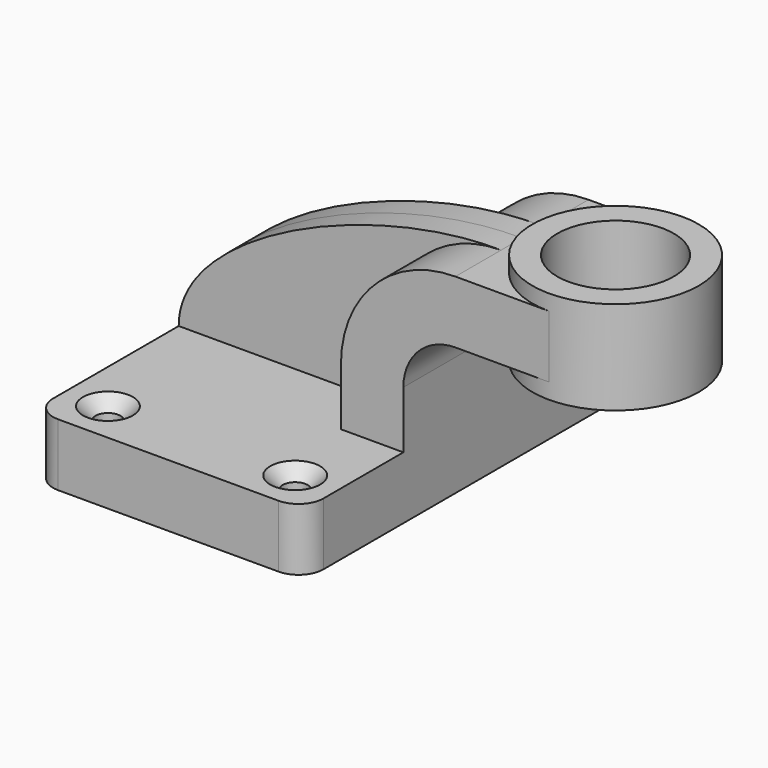
from build123d import *

# Parameters (mm, degrees)
F1_DEPTH       = 63.5
F0_W           = 25.4
F0_H           = 19.05
F2_DEPTH       = 25.4
F3_DEPTH       = 7.9375
F5_R           = 7.62
F7_D           = 7.62
F7_CSINK_D     = 15.24
F7_CSINK_ANGLE = 90
F8_D           = 7.62
F8_CSINK_D     = 15.24
F8_CSINK_ANGLE = 90
F10_D          = 35.56


with BuildPart() as f1:
    # F0 (on Front) → F1 (new body, symmetric)
    with BuildSketch(Plane.XZ):
        Polygon((22.225, 9.525), (-41.275, 9.525), (-41.275, -9.525), (41.275, -9.525), (41.275, 9.525), align=None)
    extrude(amount=F1_DEPTH, both=True)

    # F0 (on Front) → F2 (join, symmetric)
    with BuildSketch(Plane.XZ):
        with BuildLine():
            Line((22.225, 27.0002), (22.225, 9.525))
            Line((22.225, 9.525), (41.275, 9.525))
            Line((41.275, 9.525), (41.275, 27.0002))
            ThreePointArc((41.275, 27.0002), (45.9246798487, 38.2255201513), (57.15, 42.8752))
            Line((57.15, 42.8752), (60.325, 42.8752))
            Line((60.325, 42.8752), (60.325, 61.9252))
            Line((60.325, 61.9252), (57.15, 61.9252))
            ThreePointArc((57.15, 61.9252), (32.4542956671, 51.6959043329), (22.225, 27.0002))
        make_face()
        with Locations((73.025, 52.4002)):
            Rectangle(F0_W, F0_H)
    extrude(amount=F2_DEPTH, both=True)

    # F0 (on Front) → F3 (join, symmetric)
    with BuildSketch(Plane.XZ):
        with BuildLine():
            add(Edge.make_bspline(
                [(-41.275, 9.525), (-41.3618534803, 36.8419066072), (17.3745620996, 62.5231936574), (57.15, 61.9252)],
                knots=[0, 0, 0, 0, 111.5045361635, 111.5045361635, 111.5045361635, 111.5045361635], degree=3))
            Line((-41.275, 9.525), (22.225, 9.525))
            Line((22.225, 9.525), (22.225, 27.0002))
            ThreePointArc((22.225, 27.0002), (32.4542956671, 51.6959043329), (57.15, 61.9252))
        make_face()
    extrude(amount=F3_DEPTH, both=True)

    # F0 (on Front) → F4 (revolve)
    with BuildSketch(Plane.XZ):
        Polygon((85.725, 66.675), (85.725, 61.9252), (85.725, 42.8752), (85.725, 38.1), (111.125, 38.1), (111.125, 66.675), align=None)
    revolve(axis=Axis((85.725, 0, 52.3875), (0, 0, 1)))

    # F5
    f5_edges = [f1.edges().sort_by_distance(p)[0] for p in [
        (-41.275, -63.5, 0),
        (41.275, -63.5, 0),
        (-41.275, 63.5, 0),
        (41.275, 63.5, 0),
    ]]
    fillet(f5_edges, radius=F5_R)

    # F7 (through all)
    with Locations(Plane.XY.offset(9.525)):
        with Locations((-28.575, 50.8)):
            CounterSinkHole(F7_D / 2, F7_CSINK_D / 2, counter_sink_angle=F7_CSINK_ANGLE)

    # F8 (through all)
    with Locations(Plane.XY.offset(9.525)):
        with Locations((-28.575, -50.8), (28.575, -50.8), (28.575, 50.8)):
            CounterSinkHole(F8_D / 2, F8_CSINK_D / 2, counter_sink_angle=F8_CSINK_ANGLE)

    # F10 (through all)
    with Locations(Plane.XY.offset(66.675)):
        with Locations((85.725, 0)):
            Hole(F10_D / 2)


solid = f1.part
